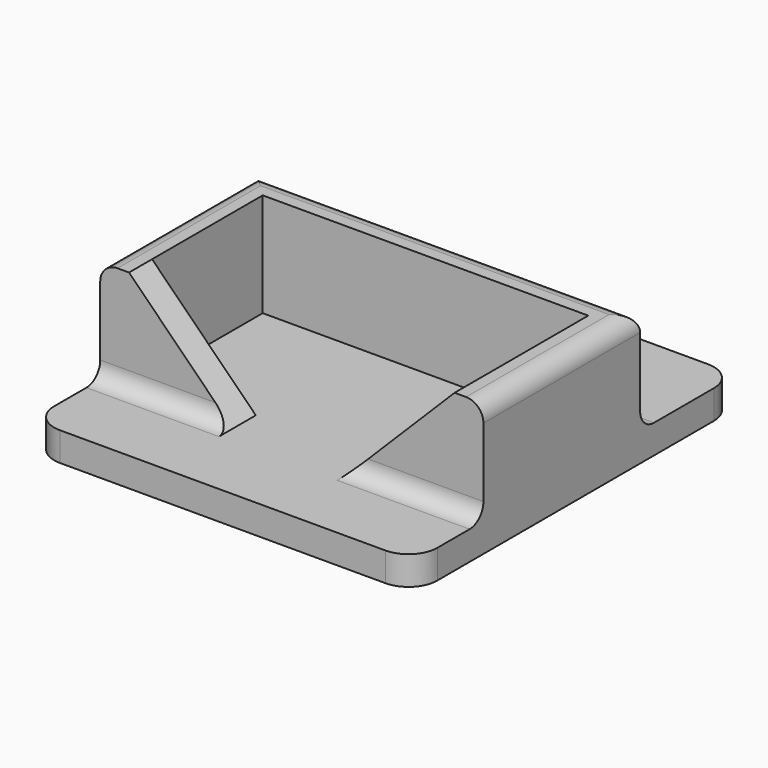
from build123d import *

# Parameters (mm, degrees)
SKETCH_W     = 66.5
SKETCH_H     = 70
PAD_DEPTH    = 5
PAD001_DEPTH = 18
PAD002_DEPTH = 5
FILLET_R     = 5
FILLET001_R  = 5
FILLET002_R  = 5
FILLET003_R  = 5
FILLET004_R  = 3
FILLET005_R  = 3
FILLET006_R  = 3


with BuildPart() as part:
    # Sketch → Pad (new body)
    with BuildSketch(Plane.XY):
        Rectangle(SKETCH_W, SKETCH_H)
    extrude(amount=PAD_DEPTH)

    # Sketch001 (on Face6 of Pad) → Pad001 (join)
    with BuildSketch(Plane.XY.offset(5)):
        Polygon((-28.25, -20), (-28.25, 9), (28.25, 9), (28.25, -20), (33.25, -20), (33.25, 14), (-33.25, 14), (-33.25, -20), align=None)
    extrude(amount=PAD001_DEPTH)

    # Sketch002 (on Face11 of Pad001) → Pad002 (join)
    with BuildSketch(Plane.XZ.offset(20)):
        Polygon((-28.25, 23), (-10.25, 5), (-28.25, 5), align=None)
        Polygon((10.25, 5), (28.25, 23), (28.25, 5), align=None)
    extrude(amount=-PAD002_DEPTH)

    # Fillet
    fillet_edges = [part.edges().sort_by_distance(p)[0] for p in [
        (33.25, -35, 2.5),
    ]]
    fillet(fillet_edges, radius=FILLET_R)

    # Fillet001
    fillet001_edges = [part.edges().sort_by_distance(p)[0] for p in [
        (-33.25, -35, 2.5),
    ]]
    fillet(fillet001_edges, radius=FILLET001_R)

    # Fillet002
    fillet002_edges = [part.edges().sort_by_distance(p)[0] for p in [
        (33.25, 35, 2.5),
    ]]
    fillet(fillet002_edges, radius=FILLET002_R)

    # Fillet003
    fillet003_edges = [part.edges().sort_by_distance(p)[0] for p in [
        (-33.25, 35, 2.5),
    ]]
    fillet(fillet003_edges, radius=FILLET003_R)

    # Fillet004
    fillet004_edges = [part.edges().sort_by_distance(p)[0] for p in [
        (33.25, -3, 23),
        (0, 14, 23),
        (-33.25, -3, 23),
    ]]
    fillet(fillet004_edges, radius=FILLET004_R)

    # Fillet005
    fillet005_edges = [part.edges().sort_by_distance(p)[0] for p in [
        (0, 14, 5),
    ]]
    fillet(fillet005_edges, radius=FILLET005_R)

    # Fillet006
    fillet006_edges = [part.edges().sort_by_distance(p)[0] for p in [
        (30.75, -20, 5),
        (-19.25, -20, 5),
        (-30.75, -20, 5),
        (19.25, -20, 5),
    ]]
    fillet(fillet006_edges, radius=FILLET006_R)


solid = part.part
